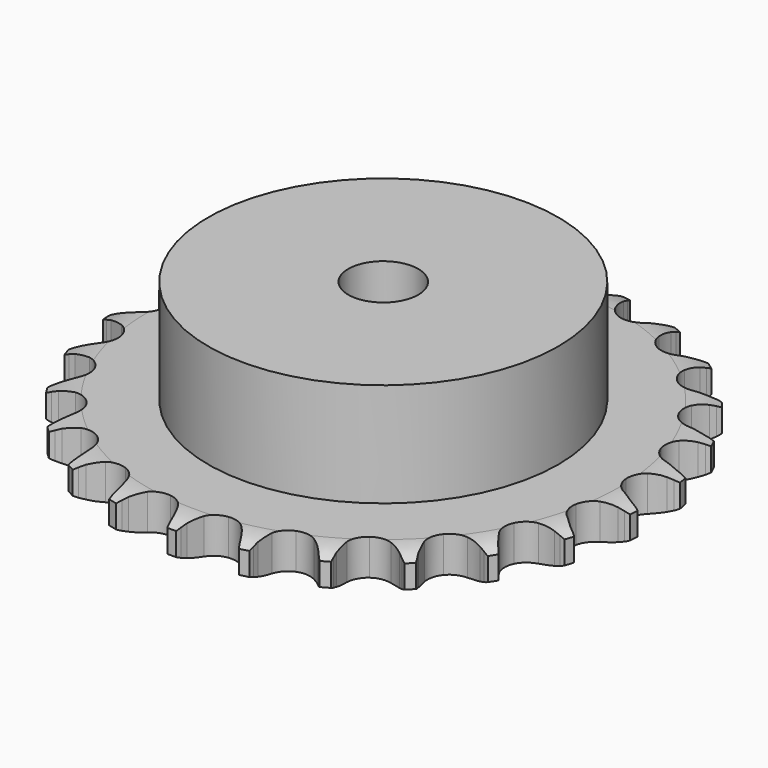
from build123d import *

# Parameters (mm, degrees)
PAD_DEPTH         = 7.2
SKETCH001_R       = 35
PAD001_DEPTH      = 28
SKETCH002_R       = 7
POCKET_DEPTH      = 0.0010001
POCKET_DEPTH_BACK = 28.001


with BuildPart() as part:
    # Sprocket → Pad (new body)
    with BuildSketch(Plane.XY):
        with BuildLine():
            ThreePointArc((-6.825514684, 54.0295121214), (-5.9716303927, 52.9584759883), (-5.3437907512, 51.741079518))
            Line((-5.3437907512, 51.741079518), (-4.9300870418, 50.6983107361))
            ThreePointArc((-4.9300870418, 50.6983107361), (-4.2701353017, 49.3196503992), (-3.4274025785, 48.0444868093))
            ThreePointArc((-3.4274025785, 48.0444868093), (-1.9115752689, 46.7971553047), (0, 46.3505589478))
            ThreePointArc((0, 46.3505589478), (1.9115752689, 46.7971553047), (3.4274025785, 48.0444868093))
            ThreePointArc((3.4274025785, 48.0444868093), (4.2701353017, 49.3196503992), (4.9300870418, 50.6983107361))
            Line((4.9300870418, 50.6983107361), (5.3437907512, 51.741079518))
            ThreePointArc((5.3437907512, 51.741079518), (5.9716303927, 52.9584759883), (6.825514684, 54.0295121214))
            ThreePointArc((6.825514684, 54.0295121214), (7.3862167751, 52.7797721699), (7.691577489, 51.4444850787))
            Line((7.691577489, 51.4444850787), (7.8329578848, 50.3315928668))
            ThreePointArc((7.8329578848, 50.3315928668), (8.1293171438, 48.8321223558), (8.6284535796, 47.3874412691))
            ThreePointArc((8.6284535796, 47.3874412691), (9.7864596557, 45.8023260548), (11.5269152748, 44.8943709057))
            ThreePointArc((11.5269152748, 44.8943709057), (13.4894988891, 44.8515471789), (15.2679024274, 45.682720548))
            Line((15.2679024274, 45.682720548), (17.383356468, 47.8794672865))
            ThreePointArc((17.383356468, 47.8794672865), (17.7019285193, 48.3413563729), (18.0433889653, 48.7865916408))
            ThreePointArc((18.0433889653, 48.7865916408), (18.9542580608, 49.8096039928), (20.047671862, 50.6346391681))
            ThreePointArc((20.047671862, 50.6346391681), (20.2799607783, 49.2847211556), (20.2436556278, 47.9154444423))
            Line((20.2436556278, 47.9154444423), (20.1038292599, 46.802355911))
            ThreePointArc((20.1038292599, 46.802355911), (20.0179746956, 45.2762924728), (20.142152266, 43.7528685151))
            ThreePointArc((20.142152266, 43.7528685151), (20.869575328, 41.9295682097), (22.3295520698, 40.6173044297))
            ThreePointArc((22.3295520698, 40.6173044297), (24.2198276831, 40.0877513915), (26.1490638154, 40.4505409455))
            Line((26.1490638154, 40.4505409455), (28.7443656758, 42.052180819))
            ThreePointArc((28.7443656758, 42.052180819), (29.1677963451, 42.4203331628), (29.6092546918, 42.7666627863))
            ThreePointArc((29.6092546918, 42.7666627863), (30.7459199861, 43.5310113914), (32.0101600868, 44.0582056148))
            ThreePointArc((32.0101600868, 44.0582056148), (31.8994402614, 42.6929298545), (31.5237504326, 41.375700211))
            Line((31.5237504326, 41.375700211), (31.1115031059, 40.3323548063))
            ThreePointArc((31.1115031059, 40.3323548063), (30.6488292764, 38.8755866191), (30.3902454479, 37.3691421205))
            ThreePointArc((30.3902454479, 37.3691421205), (30.6413788295, 35.4222213878), (31.7291409859, 33.7881033364))
            ThreePointArc((31.7291409859, 33.7881033364), (33.4283356295, 32.8050947516), (35.3871833544, 32.6767050886))
            Line((35.3871833544, 32.6767050886), (38.2992606738, 33.5826011734))
            ThreePointArc((38.2992606738, 33.5826011734), (38.8009442548, 33.8338844091), (39.3146620508, 34.0595472242))
            ThreePointArc((39.3146620508, 34.0595472242), (40.605702683, 34.5172052485), (41.9613322281, 34.7134329679))
            ThreePointArc((41.9613322281, 34.7134329679), (41.5145605948, 33.4185847571), (40.8230920615, 32.2361685661))
            Line((40.8230920615, 32.2361685661), (40.1643267917, 31.3281235171))
            ThreePointArc((40.1643267917, 31.3281235171), (39.3539051952, 30.0321846838), (38.7288077408, 28.6373750924))
            ThreePointArc((38.7288077408, 28.6373750924), (38.4878718081, 26.6891661223), (39.1350712823, 24.8358714465))
            ThreePointArc((39.1350712823, 24.8358714465), (40.5364183075, 23.4611733598), (42.4017960182, 22.8496716745))
            Line((42.4017960182, 22.8496716745), (45.4476722689, 23.002903188))
            ThreePointArc((45.4476722689, 23.002903188), (45.9960861372, 23.1215282656), (46.5497846039, 23.2123450477))
            ThreePointArc((46.5497846039, 23.2123450477), (47.9140797431, 23.3345561545), (49.2759195426, 23.1874876606))
            ThreePointArc((49.2759195426, 23.1874876606), (48.5211684063, 22.0444270745), (47.5573686793, 21.071119894))
            Line((47.5573686793, 21.071119894), (46.6934781111, 20.3554310106))
            ThreePointArc((46.6934781111, 20.3554310106), (45.586230517, 19.3017501342), (44.6338966087, 18.1062164663))
            ThreePointArc((44.6338966087, 18.1062164663), (43.9160302525, 16.2791323934), (44.0820011212, 14.3231104136))
            ThreePointArc((44.0820011212, 14.3231104136), (45.0974487407, 12.6431001617), (46.7521478954, 11.5869093539))
            Line((46.7521478954, 11.5869093539), (49.7404394704, 10.9778481965))
            ThreePointArc((49.7404394704, 10.9778481965), (50.3011247657, 10.9563614661), (50.8600129923, 10.9066258628))
            ThreePointArc((50.8600129923, 10.9066258628), (52.2118389572, 10.6857110787), (53.494319608, 10.204587226))
            ThreePointArc((53.494319608, 10.204587226), (52.4790127584, 9.285136965), (51.3034409192, 8.5820952647))
            Line((51.3034409192, 8.5820952647), (50.2887064741, 8.1037319116))
            ThreePointArc((50.2887064741, 8.1037319116), (48.9542053211, 7.3585156367), (47.7344736008, 6.4373776697))
            ThreePointArc((47.7344736008, 6.4373776697), (46.5847830043, 4.8462209059), (46.2590967075, 2.9103756768))
            ThreePointArc((46.2590967075, 2.9103756768), (46.8248406128, 1.0306144823), (48.1648903778, -0.4039010951))
            Line((48.1648903778, -0.4039010951), (50.9078319275, -1.7369853708))
            ThreePointArc((50.9078319275, -1.7369853708), (51.4455587307, -1.8972338189), (51.9745197143, -2.0843967368))
            ThreePointArc((51.9745197143, -2.0843967368), (53.228936308, -2.6345565234), (54.3514748341, -3.4195049539))
            ThreePointArc((54.3514748341, -3.4195049539), (53.1394077345, -4.0575724483), (51.8259292853, -4.4461739727))
            Line((51.8259292853, -4.4461739727), (50.7241104605, -4.6571544668))
            ThreePointArc((50.7241104605, -4.6571544668), (49.2462073638, -5.0470814609), (47.8357180613, -5.635945241))
            ThreePointArc((47.8357180613, -5.635945241), (46.326442513, -6.8911964644), (45.5295631186, -8.6852286674))
            ThreePointArc((45.5295631186, -8.6852286674), (45.6100555394, -10.6466284953), (46.5512556598, -12.3693329529))
            Line((46.5512556598, -12.3693329529), (48.8764980786, -14.3426777592))
            ThreePointArc((48.8764980786, -14.3426777592), (49.357479037, -14.6316189256), (49.8232762137, -14.9444490236))
            ThreePointArc((49.8232762137, -14.9444490236), (50.9014638281, -15.78928525), (51.7935270057, -16.8287370615))
            ThreePointArc((51.7935270057, -16.8287370615), (50.4608582897, -17.145329662), (49.092003912, -17.1950737476))
            Line((49.092003912, -17.1950737476), (47.9723320364, -17.1254147023))
            ThreePointArc((47.9723320364, -17.1254147023), (46.443889083, -17.1355518685), (44.9312684287, -17.3551409846))
            ThreePointArc((44.9312684287, -17.3551409846), (43.1572412619, -18.1956146168), (41.9392396329, -19.7351081524))
            ThreePointArc((41.9392396329, -19.7351081524), (41.5294229344, -21.654904649), (42.0126343451, -23.55755413))
            Line((42.0126343451, -23.55755413), (43.7740741003, -26.0471669552))
            ThreePointArc((43.7740741003, -26.0471669552), (44.1680874114, -26.4466456039), (44.5414530314, -26.8654866164))
            ThreePointArc((44.5414530314, -26.8654866164), (45.3756651735, -27.9519151153), (45.9812013922, -29.1805577278))
            ThreePointArc((45.9812013922, -29.1805577278), (44.6116675364, -29.1557827569), (43.2734473851, -28.8635437999))
            Line((43.2734473851, -28.8635437999), (42.2062755605, -28.5176221492))
            ThreePointArc((42.2062755605, -28.5176221492), (40.7233304424, -28.147332532), (39.203621955, -27.9838493924))
            ThreePointArc((39.203621955, -27.9838493924), (37.2763118211, -28.356735384), (35.7137194793, -29.5449582116))
            ThreePointArc((35.7137194793, -29.5449582116), (34.8393439519, -31.3025235025), (34.8342047029, -33.2655675424))
            Line((34.8342047029, -33.2655675424), (35.9211640565, -36.1150168567))
            ThreePointArc((35.9211640565, -36.1150168567), (36.2034524148, -36.5999322749), (36.4609265432, -37.0984668807))
            ThreePointArc((36.4609265432, -37.0984668807), (36.998746596, -38.358223354), (37.2797077882, -39.6988566334))
            ThreePointArc((37.2797077882, -39.6988566334), (35.9593616416, -39.3342707938), (34.7358610105, -38.7184112425))
            Line((34.7358610105, -38.7184112425), (33.7882435674, -38.1179625159))
            ThreePointArc((33.7882435674, -38.1179625159), (32.4439751802, -37.3905127739), (31.012667733, -36.8542296254))
            ThreePointArc((31.012667733, -36.8542296254), (29.0531746159, -36.7360981782), (27.244174985, -37.4983898876))
            ThreePointArc((27.244174985, -37.4983898876), (25.9601808588, -38.9832896816), (25.4670138679, -40.883383004))
            Line((25.4670138679, -40.883383004), (25.8111951662, -43.9136274273))
            ThreePointArc((25.8111951662, -43.9136274273), (25.964021356, -44.4535105959), (26.0894259463, -45.0004140323))
            ThreePointArc((26.0894259463, -45.0004140323), (26.297060698, -46.3543433477), (26.2357930388, -47.7227303746))
            ThreePointArc((26.2357930388, -47.7227303746), (25.0475968056, -47.0412419353), (24.0156927389, -46.1404585104))
            Line((24.0156927389, -46.1404585104), (23.2471719665, -45.3232111097))
            ThreePointArc((23.2471719665, -45.3232111097), (22.1260456369, -44.2843095855), (20.8730735408, -43.4089230708))
            ThreePointArc((20.8730735408, -43.4089230708), (19.0045195995, -42.807196818), (17.0627787793, -43.0956598174))
            ThreePointArc((17.0627787793, -43.0956598174), (15.4498441274, -44.2145923996), (14.4996368905, -45.9323451529))
            Line((14.4996368905, -45.9323451529), (14.0794139567, -48.9529832837))
            ThreePointArc((14.0794139567, -48.9529832837), (14.0931753465, -49.5139113576), (14.0786307671, -50.0748196703))
            ThreePointArc((14.0786307671, -50.0748196703), (13.9430337625, -51.4378494695), (13.5433869241, -52.7480094544))
            ThreePointArc((13.5433869241, -52.7480094544), (12.5619993437, -51.7924388404), (11.7865301691, -50.6633310774))
            Line((11.7865301691, -50.6633310774), (11.2453950538, -49.6806356624))
            ThreePointArc((11.2453950538, -49.6806356624), (10.4178552722, -48.3955603596), (9.4219473722, -47.2360742327))
            ThreePointArc((9.4219473722, -47.2360742327), (7.7617407229, -46.1885618479), (5.8092654304, -45.9850709463))
            ThreePointArc((5.8092654304, -45.9850709463), (3.968736869, -46.6677296672), (2.6211944013, -48.0952091285))
            Line((2.6211944013, -48.0952091285), (1.4629713879, -50.9164431638))
            ThreePointArc((1.4629713879, -50.9164431638), (1.3368032988, -51.4631709693), (1.1832234391, -52.0028402261))
            ThreePointArc((1.1832234391, -52.0028402261), (0.7129147368, -53.289326334), (0, -54.4589371066))
            ThreePointArc((0, -54.4589371066), (-0.7129147368, -53.289326334), (-1.1832234391, -52.0028402261))
            Line((-1.1832234391, -52.0028402261), (-1.4629713879, -50.9164431638))
            ThreePointArc((-1.4629713879, -50.9164431638), (-1.9449272533, -49.4659400898), (-2.6211944013, -48.0952091285))
            ThreePointArc((-2.6211944013, -48.0952091285), (-3.968736869, -46.6677296672), (-5.8092654304, -45.9850709463))
            ThreePointArc((-5.8092654304, -45.9850709463), (-7.7617407229, -46.1885618479), (-9.4219473722, -47.2360742327))
            Line((-9.4219473722, -47.2360742327), (-11.2453950538, -49.6806356624))
            ThreePointArc((-11.2453950538, -49.6806356624), (-11.5035650165, -50.1788102807), (-11.7865301691, -50.6633310774))
            ThreePointArc((-11.7865301691, -50.6633310774), (-12.5619993437, -51.7924388404), (-13.5433869241, -52.7480094544))
            ThreePointArc((-13.5433869241, -52.7480094544), (-13.9430337625, -51.4378494695), (-14.0786307671, -50.0748196703))
            Line((-14.0786307671, -50.0748196703), (-14.0794139567, -48.9529832837))
            ThreePointArc((-14.0794139567, -48.9529832837), (-14.1855028466, -47.4281928812), (-14.4996368905, -45.9323451529))
            ThreePointArc((-14.4996368905, -45.9323451529), (-15.4498441274, -44.2145923996), (-17.0627787793, -43.0956598174))
            ThreePointArc((-17.0627787793, -43.0956598174), (-19.0045195995, -42.807196818), (-20.8730735408, -43.4089230708))
            Line((-20.8730735408, -43.4089230708), (-23.2471719665, -45.3232111097))
            ThreePointArc((-23.2471719665, -45.3232111097), (-23.6211220347, -45.7415303974), (-24.0156927389, -46.1404585104))
            ThreePointArc((-24.0156927389, -46.1404585104), (-25.0475968056, -47.0412419353), (-26.2357930388, -47.7227303746))
            ThreePointArc((-26.2357930388, -47.7227303746), (-26.297060698, -46.3543433477), (-26.0894259463, -45.0004140323))
            Line((-26.0894259463, -45.0004140323), (-25.8111951662, -43.9136274273))
            ThreePointArc((-25.8111951662, -43.9136274273), (-25.5347511255, -42.4103578852), (-25.4670138679, -40.883383004))
            ThreePointArc((-25.4670138679, -40.883383004), (-25.9601808588, -38.9832896816), (-27.244174985, -37.4983898876))
            ThreePointArc((-27.244174985, -37.4983898876), (-29.0531746159, -36.7360981782), (-31.012667733, -36.8542296254))
            Line((-31.012667733, -36.8542296254), (-33.7882435674, -38.1179625159))
            ThreePointArc((-33.7882435674, -38.1179625159), (-34.2544770831, -38.4301419336), (-34.7358610105, -38.7184112425))
            ThreePointArc((-34.7358610105, -38.7184112425), (-35.9593616416, -39.3342707938), (-37.2797077882, -39.6988566334))
            ThreePointArc((-37.2797077882, -39.6988566334), (-36.998746596, -38.358223354), (-36.4609265432, -37.0984668807))
            Line((-36.4609265432, -37.0984668807), (-35.9211640565, -36.1150168567))
            ThreePointArc((-35.9211640565, -36.1150168567), (-35.2795570808, -34.7277241289), (-34.8342047029, -33.2655675424))
            ThreePointArc((-34.8342047029, -33.2655675424), (-34.8393439519, -31.3025235025), (-35.7137194793, -29.5449582116))
            ThreePointArc((-35.7137194793, -29.5449582116), (-37.2763118211, -28.356735384), (-39.203621955, -27.9838493924))
            Line((-39.203621955, -27.9838493924), (-42.2062755605, -28.5176221492))
            ThreePointArc((-42.2062755605, -28.5176221492), (-42.7354973571, -28.704046316), (-43.2734473851, -28.8635437999))
            ThreePointArc((-43.2734473851, -28.8635437999), (-44.6116675364, -29.1557827569), (-45.9812013922, -29.1805577278))
            ThreePointArc((-45.9812013922, -29.1805577278), (-45.3756651735, -27.9519151153), (-44.5414530314, -26.8654866164))
            Line((-44.5414530314, -26.8654866164), (-43.7740741003, -26.0471669552))
            ThreePointArc((-43.7740741003, -26.0471669552), (-42.8076187157, -24.8630197459), (-42.0126343451, -23.55755413))
            ThreePointArc((-42.0126343451, -23.55755413), (-41.5294229344, -21.654904649), (-41.9392396329, -19.7351081524))
            ThreePointArc((-41.9392396329, -19.7351081524), (-43.1572412619, -18.1956146168), (-44.9312684287, -17.3551409846))
            Line((-44.9312684287, -17.3551409846), (-47.9723320364, -17.1254147023))
            ThreePointArc((-47.9723320364, -17.1254147023), (-48.5312891621, -17.1743699023), (-49.092003912, -17.1950737476))
            ThreePointArc((-49.092003912, -17.1950737476), (-50.4608582897, -17.145329662), (-51.7935270057, -16.8287370615))
            ThreePointArc((-51.7935270057, -16.8287370615), (-50.9014638281, -15.78928525), (-49.8232762137, -14.9444490236))
            Line((-49.8232762137, -14.9444490236), (-48.8764980786, -14.3426777592))
            ThreePointArc((-48.8764980786, -14.3426777592), (-47.6459202312, -13.4360803925), (-46.5512556598, -12.3693329529))
            ThreePointArc((-46.5512556598, -12.3693329529), (-45.6100555394, -10.6466284953), (-45.5295631186, -8.6852286674))
            ThreePointArc((-45.5295631186, -8.6852286674), (-46.326442513, -6.8911964644), (-47.8357180613, -5.635945241))
            Line((-47.8357180613, -5.635945241), (-50.7241104605, -4.6571544668))
            ThreePointArc((-50.7241104605, -4.6571544668), (-51.2776815834, -4.5655646646), (-51.8259292853, -4.4461739727))
            ThreePointArc((-51.8259292853, -4.4461739727), (-53.1394077345, -4.0575724483), (-54.3514748341, -3.4195049539))
            ThreePointArc((-54.3514748341, -3.4195049539), (-53.228936308, -2.6345565234), (-51.9745197143, -2.0843967368))
            Line((-51.9745197143, -2.0843967368), (-50.9078319275, -1.7369853708))
            ThreePointArc((-50.9078319275, -1.7369853708), (-49.4904533492, -1.1649026936), (-48.1648903778, -0.4039010951))
            ThreePointArc((-48.1648903778, -0.4039010951), (-46.8248406128, 1.0306144823), (-46.2590967075, 2.9103756768))
            ThreePointArc((-46.2590967075, 2.9103756768), (-46.5847830043, 4.8462209059), (-47.7344736008, 6.4373776697))
            Line((-47.7344736008, 6.4373776697), (-50.2887064741, 8.1037319116))
            ThreePointArc((-50.2887064741, 8.1037319116), (-50.8021086847, 8.3301117918), (-51.3034409192, 8.5820952647))
            ThreePointArc((-51.3034409192, 8.5820952647), (-52.4790127584, 9.285136965), (-53.494319608, 10.204587226))
            ThreePointArc((-53.494319608, 10.204587226), (-52.2118389572, 10.6857110787), (-50.8600129923, 10.9066258628))
            Line((-50.8600129923, 10.9066258628), (-49.7404394704, 10.9778481965))
            ThreePointArc((-49.7404394704, 10.9778481965), (-48.2253192701, 11.1794701258), (-46.7521478954, 11.5869093539))
            ThreePointArc((-46.7521478954, 11.5869093539), (-45.0974487407, 12.6431001617), (-44.0820011212, 14.3231104136))
            ThreePointArc((-44.0820011212, 14.3231104136), (-43.9160302525, 16.2791323934), (-44.6338966087, 18.1062164663))
            Line((-44.6338966087, 18.1062164663), (-46.6934781111, 20.3554310106))
            ThreePointArc((-46.6934781111, 20.3554310106), (-47.1344524602, 20.7023766884), (-47.5573686793, 21.071119894))
            ThreePointArc((-47.5573686793, 21.071119894), (-48.5211684063, 22.0444270745), (-49.2759195426, 23.1874876606))
            ThreePointArc((-49.2759195426, 23.1874876606), (-47.9140797431, 23.3345561545), (-46.5497846039, 23.2123450477))
            Line((-46.5497846039, 23.2123450477), (-45.4476722689, 23.002903188))
            ThreePointArc((-45.4476722689, 23.002903188), (-43.9300110209, 22.821395722), (-42.4017960182, 22.8496716745))
            ThreePointArc((-42.4017960182, 22.8496716745), (-40.5364183075, 23.4611733598), (-39.1350712823, 24.8358714465))
            ThreePointArc((-39.1350712823, 24.8358714465), (-38.4878718081, 26.6891661223), (-38.7288077408, 28.6373750924))
            Line((-38.7288077408, 28.6373750924), (-40.1643267917, 31.3281235171))
            ThreePointArc((-40.1643267917, 31.3281235171), (-40.5051652393, 31.7738351197), (-40.8230920615, 32.2361685661))
            ThreePointArc((-40.8230920615, 32.2361685661), (-41.5145605948, 33.4185847571), (-41.9613322281, 34.7134329679))
            ThreePointArc((-41.9613322281, 34.7134329679), (-40.605702683, 34.5172052485), (-39.3146620508, 34.0595472242))
            Line((-39.3146620508, 34.0595472242), (-38.2992606738, 33.5826011734))
            ThreePointArc((-38.2992606738, 33.5826011734), (-36.874418616, 33.0293690937), (-35.3871833544, 32.6767050886))
            ThreePointArc((-35.3871833544, 32.6767050886), (-33.4283356295, 32.8050947516), (-31.7291409859, 33.7881033364))
            ThreePointArc((-31.7291409859, 33.7881033364), (-30.6413788295, 35.4222213878), (-30.3902454479, 37.3691421205))
            Line((-30.3902454479, 37.3691421205), (-31.1115031059, 40.3323548063))
            ThreePointArc((-31.1115031059, 40.3323548063), (-31.3307895188, 40.8488266343), (-31.5237504326, 41.375700211))
            ThreePointArc((-31.5237504326, 41.375700211), (-31.8994402614, 42.6929298545), (-32.0101600868, 44.0582056148))
            ThreePointArc((-32.0101600868, 44.0582056148), (-30.7459199861, 43.5310113914), (-29.6092546918, 42.7666627863))
            Line((-29.6092546918, 42.7666627863), (-28.7443656758, 42.052180819))
            ThreePointArc((-28.7443656758, 42.052180819), (-27.5018708748, 41.1619857317), (-26.1490638154, 40.4505409455))
            ThreePointArc((-26.1490638154, 40.4505409455), (-24.2198276831, 40.0877513915), (-22.3295520698, 40.6173044297))
            ThreePointArc((-22.3295520698, 40.6173044297), (-20.869575328, 41.9295682097), (-20.142152266, 43.7528685151))
            Line((-20.142152266, 43.7528685151), (-20.1038292599, 46.802355911))
            ThreePointArc((-20.1038292599, 46.802355911), (-20.1877850663, 47.3571361401), (-20.2436556278, 47.9154444423))
            ThreePointArc((-20.2436556278, 47.9154444423), (-20.2799607783, 49.2847211556), (-20.047671862, 50.6346391681))
            ThreePointArc((-20.047671862, 50.6346391681), (-18.9542580608, 49.8096039928), (-18.0433889653, 48.7865916408))
            Line((-18.0433889653, 48.7865916408), (-17.383356468, 47.8794672865))
            ThreePointArc((-17.383356468, 47.8794672865), (-16.4012794418, 46.708243423), (-15.2679024274, 45.682720548))
            ThreePointArc((-15.2679024274, 45.682720548), (-13.4894988891, 44.8515471789), (-11.5269152748, 44.8943709057))
            ThreePointArc((-11.5269152748, 44.8943709057), (-9.7864596557, 45.8023260548), (-8.6284535796, 47.3874412691))
            Line((-8.6284535796, 47.3874412691), (-7.8329578848, 50.3315928668))
            ThreePointArc((-7.8329578848, 50.3315928668), (-7.7763078326, 50.8898226148), (-7.691577489, 51.4444850787))
            ThreePointArc((-7.691577489, 51.4444850787), (-7.3862167751, 52.7797721699), (-6.825514684, 54.0295121214))
        make_face()
    extrude(amount=PAD_DEPTH)

    # Sketch → Groove (revolve, cut)
    with BuildSketch(Plane.XZ):
        with BuildLine():
            Line((47.2334313734, 0), (52.9, 0))
            Line((58.5665686266, 0), (52.9, 0))
            Line((58.5665686266, 7.2), (58.5665686266, 0))
            Line((52.9, 7.2), (58.5665686266, 7.2))
            Line((47.2334313734, 7.2), (52.9, 7.2))
            ThreePointArc((52.9, 5.9), (50.1403197441, 6.8708326483), (47.2334313734, 7.2))
            Line((52.9, 1.3), (52.9, 5.9))
            ThreePointArc((47.2334313734, 0), (50.1403197441, 0.3291673517), (52.9, 1.3))
        make_face()
    revolve(axis=Axis((0, 0, 0), (0, 0, 1)), mode=Mode.SUBTRACT)

    # Sketch001 → Pad001 (join)
    with BuildSketch(Plane.XY):
        Circle(SKETCH001_R)
    extrude(amount=PAD001_DEPTH)

    # Sketch002 → Pocket (cut, two sides)
    with BuildSketch(Plane.XY) as pocket_sk:
        Circle(SKETCH002_R)
    extrude(amount=-POCKET_DEPTH, mode=Mode.SUBTRACT)
    extrude(pocket_sk.sketch, amount=POCKET_DEPTH_BACK, mode=Mode.SUBTRACT)


solid = part.part
